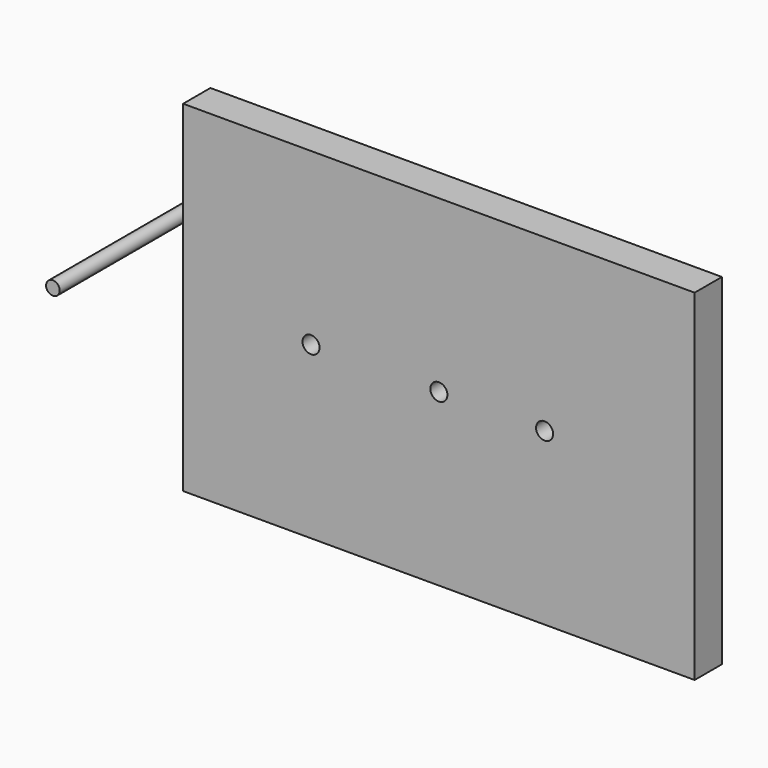
from build123d import *

# Parameters (mm, degrees)
F0_W     = 150
F0_H     = 100
F0_R     = 2.5
F1_DEPTH = 10
F2_R     = 2
F3_DEPTH = 25


with BuildPart() as f1:
    # F0 (on Front) → F1 (new body)
    with BuildSketch(Plane.XZ):
        Rectangle(F0_W, F0_H)
        with Locations((-37.5, 0)):
            Circle(F0_R, mode=Mode.SUBTRACT)
        Circle(F0_R, mode=Mode.SUBTRACT)
        with Locations((31, 0)):
            Circle(F0_R, mode=Mode.SUBTRACT)
    extrude(amount=F1_DEPTH)


with BuildPart() as f3:
    # F2 (on Front) → F3 (new body, symmetric)
    with BuildSketch(Plane.XZ):
        with Locations((-101.193815, 0)):
            Circle(F2_R)
    extrude(amount=F3_DEPTH, both=True)


solid = Compound([f1.part, f3.part])
